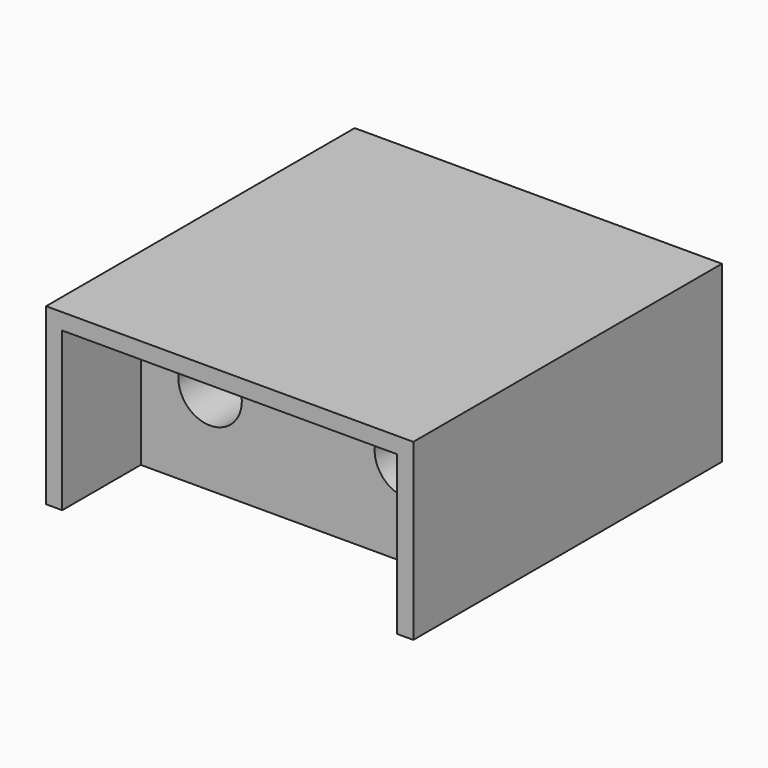
from build123d import *

# Parameters (mm, degrees)
SKETCH004_W     = 31.8
SKETCH004_H     = 33.4
PAD002_DEPTH    = 15.1
SKETCH005_W     = 29.000001
SKETCH005_H     = 13.7
POCKET001_DEPTH = 8.5
SKETCH006_W     = 17.5
SKETCH006_H     = 22.9
POCKET002_DEPTH = 2
SKETCH009_R     = 2.75
POCKET004_DEPTH = 8
SKETCH010_R     = 1.8
POCKET005_DEPTH = 20


with BuildPart() as part:
    # Sketch004 (on Face5 of Binder001) → Pad002 (new body)
    with BuildSketch(Plane.XY.offset(1.6)):
        with Locations((13.749781, 17.25)):
            Rectangle(SKETCH004_W, SKETCH004_H)
    extrude(amount=PAD002_DEPTH)

    # Sketch005 (on Face2 of Pad002) → Pocket001 (cut)
    with BuildSketch(Plane.XZ.offset(-0.55)):
        with Locations((13.74978, 8.45)):
            Rectangle(SKETCH005_W, SKETCH005_H)
    extrude(amount=-POCKET001_DEPTH, mode=Mode.SUBTRACT)

    # Sketch006 (on Face4 of Pocket001) → Pocket002 (cut)
    with BuildSketch(Plane(origin=(0, 0, 1.6), x_dir=(1, 0, 0), z_dir=(0, 0, -1))):
        with Locations((13.75, -21.5)):
            Rectangle(SKETCH006_W, SKETCH006_H)
    extrude(amount=-POCKET002_DEPTH, mode=Mode.SUBTRACT)

    # Sketch009 (on Face10 of Pocket002) → Pocket004 (cut)
    with BuildSketch(Plane.XZ.offset(-9.05)):
        with Locations((5.24978, 9.3)):
            Circle(SKETCH009_R)
        with Locations((22.249781, 9.3)):
            Circle(SKETCH009_R)
    extrude(amount=-POCKET004_DEPTH, mode=Mode.SUBTRACT)

    # Sketch010 (on Face18 of Pocket004) → Pocket005 (cut)
    with BuildSketch(Plane.XZ.offset(-17.05)):
        with Locations((5.24978, 9.3)):
            Circle(SKETCH010_R)
        with Locations((22.249781, 9.3)):
            Circle(SKETCH010_R)
    extrude(amount=-POCKET005_DEPTH, mode=Mode.SUBTRACT)


solid = part.part
